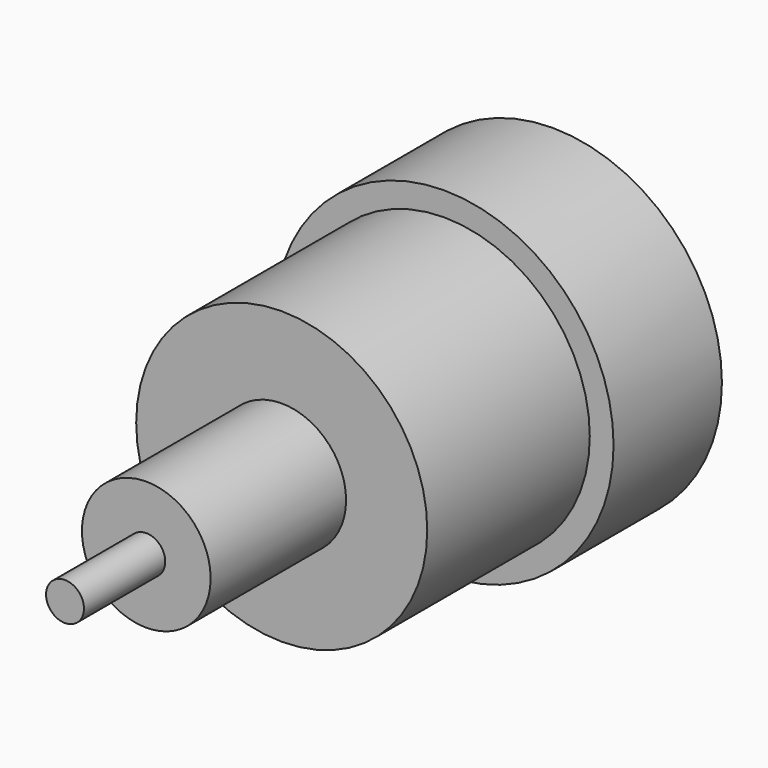
from build123d import *

# Parameters (mm, degrees)
F0_R     = 50
F1_DEPTH = 40
F2_R     = 42.978315
F3_DEPTH = 100
F4_R     = 19.003957
F5_DEPTH = 50
F6_R     = 5.601442
F7_DEPTH = 30


with BuildPart() as f1:
    # F0 (on Front) → F1 (new body)
    with BuildSketch(Plane.XZ):
        Circle(F0_R)
    extrude(amount=F1_DEPTH)

    # F2 (on Front) → F3 (join)
    with BuildSketch(Plane.XZ):
        Circle(F2_R)
    extrude(amount=F3_DEPTH)

    # F4 (on face) → F5 (join)
    with BuildSketch(Plane.XZ.offset(100)):
        Circle(F4_R)
    extrude(amount=F5_DEPTH)

    # F6 (on face) → F7 (join)
    with BuildSketch(Plane.XZ.offset(150)):
        Circle(F6_R)
    extrude(amount=F7_DEPTH)


solid = f1.part
